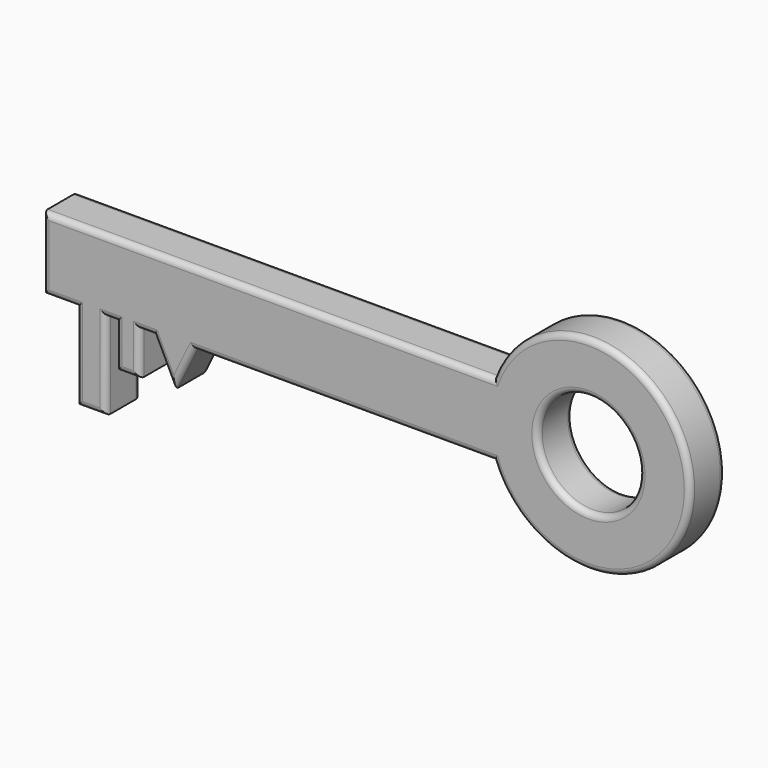
from build123d import *

# Parameters (mm, degrees)
F0_R     = 17.5
F0_W     = 8
F0_H     = 15
F0_W_2   = 10
F0_H_2   = 30
F1_DEPTH = 15
F2_R     = 2


with BuildPart() as f1:
    # F0 (on Front) → F1 (new body)
    with BuildSketch(Plane.XZ):
        Polygon((77.5, 12.5), (-77.5, 12.5), (-77.5, -12.5), (-65.925811, -12.5), (-55.925811, -12.5), (-52.329316, -12.5), (-44.329316, -12.5), (-39.5, -12.5), (-32.5, -12.5), (-25.5, -12.5), (77.5, -12.5), align=None)
        with BuildLine():
            ThreePointArc((77.5, -12.5), (145.191742, 0), (77.5, 12.5))
            Line((77.5, 12.5), (77.5, -12.5))
        make_face()
        with Locations((110.191742, 0)):
            Circle(F0_R, mode=Mode.SUBTRACT)
        Polygon((-32.5, -26.887495), (-32.5, -12.5), (-39.5, -12.5), align=None)
        Polygon((-32.5, -26.887495), (-25.5, -12.5), (-32.5, -12.5), align=None)
        with Locations((-48.329316, -20)):
            Rectangle(F0_W, F0_H)
        with Locations((-60.925811, -27.5)):
            Rectangle(F0_W_2, F0_H_2)
    extrude(amount=F1_DEPTH)

    # F2
    f2_edges = [f1.edges().sort_by_distance(p)[0] for p in [
        (0, -15, 12.5),
        (-77.5, -15, 0),
        (-71.712905, -15, -12.5),
        (-65.925811, -15, -27.5),
        (-60.925811, -15, -42.5),
        (-55.925811, -15, -27.5),
        (-54.127563, -15, -12.5),
        (-52.329316, -15, -20),
        (-48.329316, -15, -27.5),
        (-44.329316, -15, -20),
        (-41.914658, -15, -12.5),
        (-36, -15, -19.693747),
        (-29, -15, -19.693747),
        (26, -15, -12.5),
        (145.191742, -15, 0),
        (92.691742, -15, 0),
        (-29, 0, -19.693747),
        (92.691742, 0, 0),
        (0, 0, 12.5),
        (-77.5, 0, 0),
        (-60.925811, 0, -42.5),
        (-55.925811, 0, -27.5),
        (-52.329316, 0, -20),
        (145.191742, 0, 0),
        (-44.329316, 0, -20),
        (-71.712905, 0, -12.5),
    ]]
    fillet(f2_edges, radius=F2_R)


solid = f1.part
